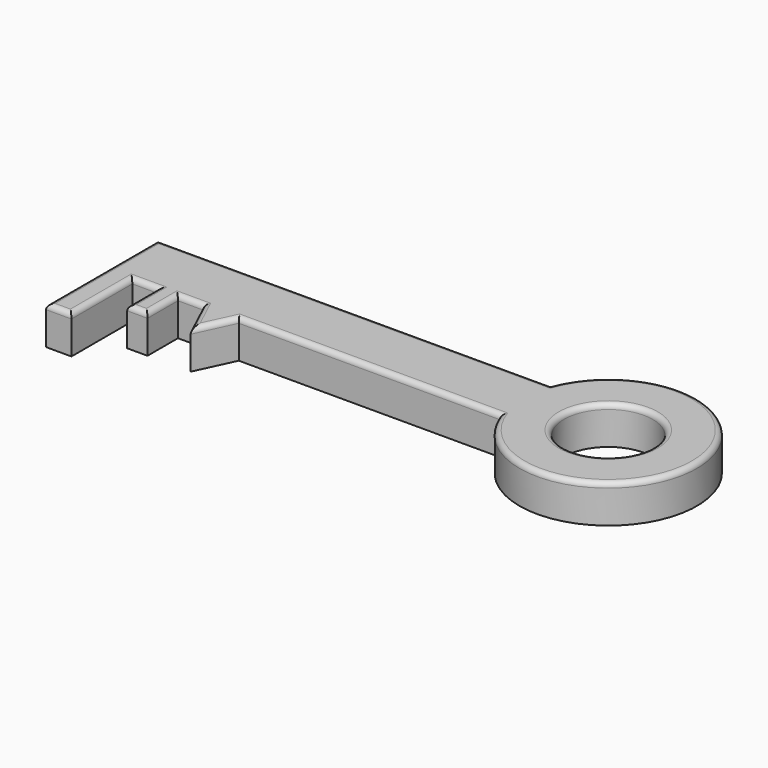
from build123d import *

# Parameters (mm, degrees)
F0_W     = 8
F0_H     = 15
F0_W_2   = 10
F0_H_2   = 30
F0_R     = 17.5
F1_DEPTH = 15
F2_R     = 2


with BuildPart() as f1:
    # F0 (on Top) → F1 (new body)
    with BuildSketch(Plane.XY):
        Polygon((110, 38.5604002979), (-45, 38.5604002979), (-45, 13.5604002979), (-35, 13.5604002979), (-25, 13.5604002979), (-17, 13.5604002979), (-7, 13.5604002979), (0, 13.5604002979), (7, 13.5604002979), (110, 13.5604002979), align=None)
        with Locations((-21, 6.0604002979)):
            Rectangle(F0_W, F0_H)
        with Locations((-40, -1.4395997021)):
            Rectangle(F0_W_2, F0_H_2)
        Polygon((0, -1.439660002), (0, 13.5604002979), (-7, 13.5604002979), align=None)
        Polygon((0, -1.439660002), (7, 13.5604002979), (0, 13.5604002979), align=None)
        with BuildLine():
            ThreePointArc((110, 13.5604002979), (177.6917420766, 26.0604002979), (110, 38.5604002979))
            Line((110, 38.5604002979), (110, 13.5604002979))
        make_face()
        with Locations((142.6917420766, 26.0604002979)):
            Circle(F0_R, mode=Mode.SUBTRACT)
    extrude(amount=F1_DEPTH)

    # F2
    f2_edges = [f1.edges().sort_by_distance(p)[0] for p in [
        (32.5, 38.5604, 15),
        (-45, 11.0604, 15),
        (-40, -16.4396, 15),
        (-35, -1.4396, 15),
        (-30, 13.5604, 15),
        (-25, 6.0604, 15),
        (-21, -1.4396, 15),
        (-17, 6.0604, 15),
        (-12, 13.5604, 15),
        (-3.5, 6.06037, 15),
        (3.5, 6.06037, 15),
        (58.5, 13.5604, 15),
        (177.691742, 26.0604, 15),
        (125.191742, 26.0604, 15),
    ]]
    fillet(f2_edges, radius=F2_R)


solid = f1.part
